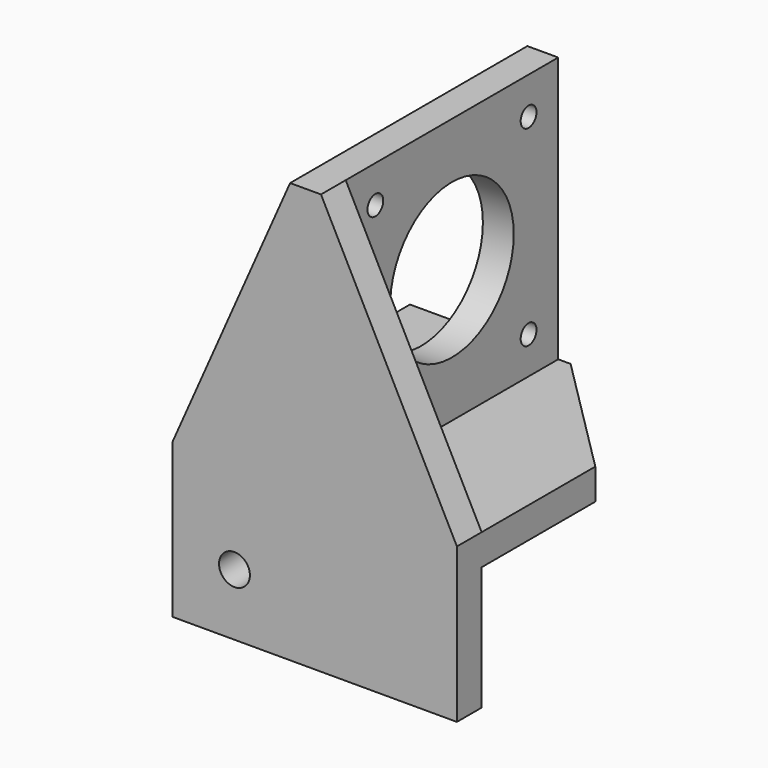
from build123d import *

# Parameters (mm, degrees)
F1_DEPTH     = 43
F2_W         = 20
F2_H         = 20
F3_DEPTH     = 3
F4_W         = 27
F4_H         = 20
F5_DEPTH     = 5
F7_R         = 12.5
F8_DEPTH     = 5
F11_D        = 3.2
F11_ON_F9_D  = 3.2
F11_ON_F10_D = 3.2
F12_W        = 21
F12_H        = 20
F13_DEPTH    = 5
F14_SIZE     = 20
F15_R        = 2.5
F16_DEPTH    = 8


with BuildPart() as f1:
    # F0 (on Front) → F1 (new body)
    with BuildSketch(Plane.XZ):
        Polygon((0, 25), (0, 20), (20, 20), (20, 0), (25, 0), (25, 20), (46, 20), (46, 25), (24, 25), (24, 68), (19, 68), (19, 25), align=None)
    extrude(amount=F1_DEPTH)

    # F2 (on face) → F3 (join)
    with BuildSketch(Plane.XZ.offset(43)):
        with Locations((10, 10)):
            Rectangle(F2_W, F2_H)
    extrude(amount=-F3_DEPTH)

    # F4 (on face) → F5 (cut, through all)
    with BuildSketch(Plane.YZ.offset(25)):
        with Locations((-13.5, 10)):
            Rectangle(F4_W, F4_H)
    extrude(amount=-F5_DEPTH, mode=Mode.SUBTRACT)

    # F7 (on face) → F8 (cut, through all)
    with BuildSketch(Plane.YZ.offset(24)):
        with Locations((-21.5, 46.5)):
            Circle(F7_R)
    extrude(amount=-F8_DEPTH, mode=Mode.SUBTRACT)

    # F11 (through all)
    with Locations(Plane.YZ.offset(24)):
        with Locations((-37, 62), (-6, 62), (-37, 31), (-6, 31)):
            Hole(F11_D / 2)

    # F11 on F9 (through all)
    with Locations(Plane(origin=(0, 0, 20), x_dir=(1, 0, 0), z_dir=(0, 0, -1))):
        with Locations((10, 10), (10, 30)):
            Hole(F11_ON_F9_D / 2)

    # F11 on F10 (through all)
    with Locations(Plane(origin=(20, 0, 0), x_dir=(0, -1, 0), z_dir=(-1, 0, 0))):
        with Locations((33.5, 10)):
            Hole(F11_ON_F10_D / 2)

    # F12 (on face) → F13 (join)
    with BuildSketch(Plane.XZ.offset(43)):
        Polygon((19, 68), (0, 25), (19, 25), align=None)
        Polygon((19, 25), (0, 25), (0, 0), (25, 0), (25, 20), (46, 20), (46, 25), (24, 25), (24, 68), (19, 68), align=None)
        Polygon((46, 25), (24, 68), (24, 25), align=None)
        with Locations((35.5, 10)):
            Rectangle(F12_W, F12_H)
    extrude(amount=F13_DEPTH)

    # F14
    f14_edges = [f1.edges().sort_by_distance(p)[0] for p in [
        (46, 0, 22.5),
    ]]
    chamfer(f14_edges, length=F14_SIZE)

    # F15 (on face) → F16 (cut, through all)
    with BuildSketch(Plane(origin=(0, -40, 0), x_dir=(-1, 0, 0), z_dir=(0, 1, 0))):
        with Locations((-10, 10)):
            Circle(F15_R)
    extrude(amount=-F16_DEPTH, mode=Mode.SUBTRACT)


solid = f1.part
